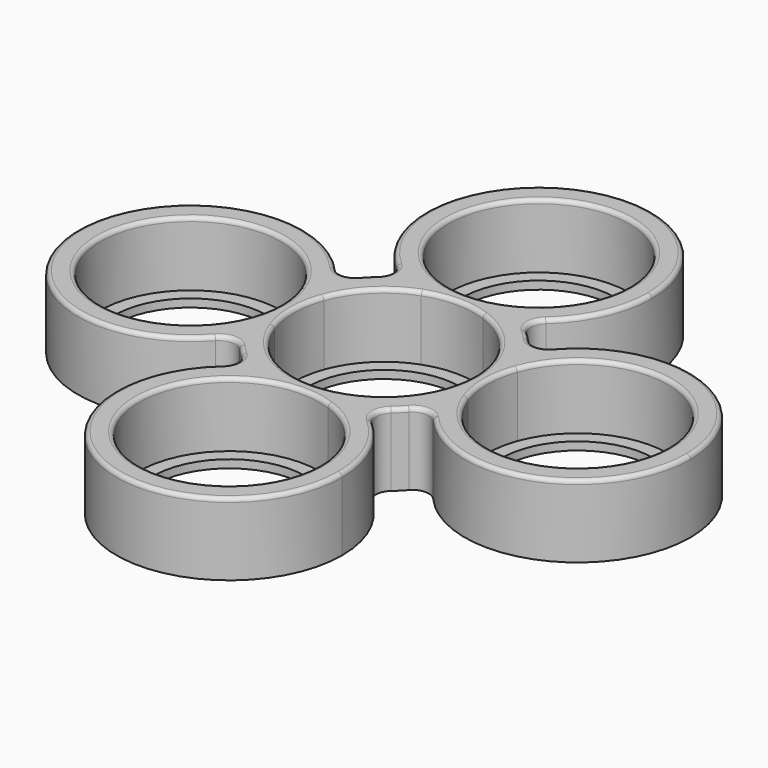
from build123d import *

# Parameters (mm, degrees)
F0_R     = 9.5
F1_DEPTH = 1
F2_DEPTH = 9
F3_R     = 2
F4_R     = 0.5


with BuildPart() as f1:
    # F0 (on Top) → F1 (new body)
    with BuildSketch(Plane.XY):
        with BuildLine():
            ThreePointArc((10.53, 3.8156388718), (11.0312283994, 1.937008002), (11.2, 0))
            ThreePointArc((11.2, 0), (11.0312283994, -1.937008002), (10.53, -3.8156388718))
            ThreePointArc((10.53, -3.8156388718), (11.1523341264, -5.5621472114), (12, -7.2111025509))
            ThreePointArc((12, -7.2111025509), (12.8476658736, -5.5621472114), (13.47, -3.8156388718))
            ThreePointArc((13.47, -3.8156388718), (12.8, 0), (13.47, 3.8156388718))
            ThreePointArc((13.47, 3.8156388718), (12.8476658736, 5.5621472114), (12, 7.2111025509))
            ThreePointArc((12, 7.2111025509), (11.1523341264, 5.5621472114), (10.53, 3.8156388718))
        make_face()
        with BuildLine():
            ThreePointArc((3.8156388718, 10.53), (7.9195959493, 7.9195959493), (10.53, 3.8156388718))
            ThreePointArc((10.53, 3.8156388718), (11.1523341264, 5.5621472114), (12, 7.2111025509))
            ThreePointArc((12, 7.2111025509), (9.8994949366, 9.8994949366), (7.2111025509, 12))
            ThreePointArc((7.2111025509, 12), (5.5621472114, 11.1523341264), (3.8156388718, 10.53))
        make_face()
        with BuildLine():
            ThreePointArc((12, -7.2111025509), (11.1523341264, -5.5621472114), (10.53, -3.8156388718))
            ThreePointArc((10.53, -3.8156388718), (7.9195959493, -7.9195959493), (3.8156388718, -10.53))
            ThreePointArc((3.8156388718, -10.53), (5.5621472114, -11.1523341264), (7.2111025509, -12))
            ThreePointArc((7.2111025509, -12), (9.8994949366, -9.8994949366), (12, -7.2111025509))
        make_face()
        with BuildLine():
            ThreePointArc((-3.8156388718, 10.53), (0, 11.2), (3.8156388718, 10.53))
            ThreePointArc((3.8156388718, 10.53), (5.5621472114, 11.1523341264), (7.2111025509, 12))
            ThreePointArc((7.2111025509, 12), (5.5621472114, 12.8476658736), (3.8156388718, 13.47))
            ThreePointArc((3.8156388718, 13.47), (0, 12.8), (-3.8156388718, 13.47))
            ThreePointArc((-3.8156388718, 13.47), (-5.5621472114, 12.8476658736), (-7.2111025509, 12))
            ThreePointArc((-7.2111025509, 12), (-5.5621472114, 11.1523341264), (-3.8156388718, 10.53))
        make_face()
        with BuildLine():
            ThreePointArc((38, 0), (27.7416573868, 13.4907375632), (12, 7.2111025509))
            ThreePointArc((12, 7.2111025509), (12.8476658736, 5.5621472114), (13.47, 3.8156388718))
            ThreePointArc((13.47, 3.8156388718), (25.937008002, 11.0312283994), (35.2, 0))
            ThreePointArc((35.2, 0), (25.937008002, -11.0312283994), (13.47, -3.8156388718))
            ThreePointArc((13.47, -3.8156388718), (12.8476658736, -5.5621472114), (12, -7.2111025509))
            ThreePointArc((12, -7.2111025509), (27.7416573868, -13.4907375632), (38, 0))
        make_face()
        with BuildLine():
            ThreePointArc((7.2111025509, -12), (5.5621472114, -11.1523341264), (3.8156388718, -10.53))
            ThreePointArc((3.8156388718, -10.53), (0, -11.2), (-3.8156388718, -10.53))
            ThreePointArc((-3.8156388718, -10.53), (-5.5621472114, -11.1523341264), (-7.2111025509, -12))
            ThreePointArc((-7.2111025509, -12), (-5.5621472114, -12.8476658736), (-3.8156388718, -13.47))
            ThreePointArc((-3.8156388718, -13.47), (0, -12.8), (3.8156388718, -13.47))
            ThreePointArc((3.8156388718, -13.47), (5.5621472114, -12.8476658736), (7.2111025509, -12))
        make_face()
        with BuildLine():
            ThreePointArc((-10.53, 3.8156388718), (-7.9195959493, 7.9195959493), (-3.8156388718, 10.53))
            ThreePointArc((-3.8156388718, 10.53), (-5.5621472114, 11.1523341264), (-7.2111025509, 12))
            ThreePointArc((-7.2111025509, 12), (-9.8994949366, 9.8994949366), (-12, 7.2111025509))
            ThreePointArc((-12, 7.2111025509), (-11.1523341264, 5.5621472114), (-10.53, 3.8156388718))
        make_face()
        with BuildLine():
            ThreePointArc((3.8156388718, 13.47), (5.5621472114, 12.8476658736), (7.2111025509, 12))
            ThreePointArc((7.2111025509, 12), (12.1851433252, 17.1063592969), (14, 24))
            ThreePointArc((14, 24), (-6.8936407031, 36.1851433252), (-7.2111025509, 12))
            ThreePointArc((-7.2111025509, 12), (-5.5621472114, 12.8476658736), (-3.8156388718, 13.47))
            ThreePointArc((-3.8156388718, 13.47), (-6.4305849126, 33.1699278995), (11.2, 24))
            ThreePointArc((11.2, 24), (9.1699278995, 17.5694150874), (3.8156388718, 13.47))
        make_face()
        with BuildLine():
            ThreePointArc((-7.2111025509, -12), (-5.5621472114, -11.1523341264), (-3.8156388718, -10.53))
            ThreePointArc((-3.8156388718, -10.53), (-7.9195959493, -7.9195959493), (-10.53, -3.8156388718))
            ThreePointArc((-10.53, -3.8156388718), (-11.1523341264, -5.5621472114), (-12, -7.2111025509))
            ThreePointArc((-12, -7.2111025509), (-9.8994949366, -9.8994949366), (-7.2111025509, -12))
        make_face()
        with BuildLine():
            ThreePointArc((14, -24), (12.1851433252, -17.1063592969), (7.2111025509, -12))
            ThreePointArc((7.2111025509, -12), (5.5621472114, -12.8476658736), (3.8156388718, -13.47))
            ThreePointArc((3.8156388718, -13.47), (9.1699278995, -17.5694150874), (11.2, -24))
            ThreePointArc((11.2, -24), (-6.4305849126, -33.1699278995), (-3.8156388718, -13.47))
            ThreePointArc((-3.8156388718, -13.47), (-5.5621472114, -12.8476658736), (-7.2111025509, -12))
            ThreePointArc((-7.2111025509, -12), (-6.8936407031, -36.1851433252), (14, -24))
        make_face()
        with BuildLine():
            ThreePointArc((-10.53, -3.8156388718), (-11.2, 0), (-10.53, 3.8156388718))
            ThreePointArc((-10.53, 3.8156388718), (-11.1523341264, 5.5621472114), (-12, 7.2111025509))
            ThreePointArc((-12, 7.2111025509), (-12.8476658736, 5.5621472114), (-13.47, 3.8156388718))
            ThreePointArc((-13.47, 3.8156388718), (-12.9687716006, 1.937008002), (-12.8, 0))
            ThreePointArc((-12.8, 0), (-12.9687716006, -1.937008002), (-13.47, -3.8156388718))
            ThreePointArc((-13.47, -3.8156388718), (-12.8476658736, -5.5621472114), (-12, -7.2111025509))
            ThreePointArc((-12, -7.2111025509), (-11.1523341264, -5.5621472114), (-10.53, -3.8156388718))
        make_face()
        with BuildLine():
            ThreePointArc((-13.47, 3.8156388718), (-12.8476658736, 5.5621472114), (-12, 7.2111025509))
            ThreePointArc((-12, 7.2111025509), (-38, 0), (-12, -7.2111025509))
            ThreePointArc((-12, -7.2111025509), (-12.8476658736, -5.5621472114), (-13.47, -3.8156388718))
            ThreePointArc((-13.47, -3.8156388718), (-35.2, 0), (-13.47, 3.8156388718))
        make_face()
        with BuildLine():
            ThreePointArc((10.53, -3.8156388718), (10, 0), (10.53, 3.8156388718))
            ThreePointArc((10.53, 3.8156388718), (7.9195959493, 7.9195959493), (3.8156388718, 10.53))
            ThreePointArc((3.8156388718, 10.53), (0, 10), (-3.8156388718, 10.53))
            ThreePointArc((-3.8156388718, 10.53), (-7.9195959493, 7.9195959493), (-10.53, 3.8156388718))
            ThreePointArc((-10.53, 3.8156388718), (-10.1331330143, 1.9261360284), (-10, 0))
            ThreePointArc((-10, 0), (-10.1331330143, -1.9261360284), (-10.53, -3.8156388718))
            ThreePointArc((-10.53, -3.8156388718), (-7.9195959493, -7.9195959493), (-3.8156388718, -10.53))
            ThreePointArc((-3.8156388718, -10.53), (0, -10), (3.8156388718, -10.53))
            ThreePointArc((3.8156388718, -10.53), (7.9195959493, -7.9195959493), (10.53, -3.8156388718))
        make_face()
        Circle(F0_R, mode=Mode.SUBTRACT)
        with BuildLine():
            ThreePointArc((-3.8156388718, 13.47), (0, 12.8), (3.8156388718, 13.47))
            ThreePointArc((3.8156388718, 13.47), (0, 14), (-3.8156388718, 13.47))
        make_face()
        with BuildLine():
            ThreePointArc((-3.8156388718, 13.47), (0, 14), (3.8156388718, 13.47))
            ThreePointArc((3.8156388718, 13.47), (9.1699278995, 17.5694150874), (11.2, 24))
            ThreePointArc((11.2, 24), (-6.4305849126, 33.1699278995), (-3.8156388718, 13.47))
        make_face()
        with Locations((0, 24)):
            Circle(F0_R, mode=Mode.SUBTRACT)
        with BuildLine():
            ThreePointArc((-12.8, 0), (-12.9687716006, 1.937008002), (-13.47, 3.8156388718))
            ThreePointArc((-13.47, 3.8156388718), (-14, 0), (-13.47, -3.8156388718))
            ThreePointArc((-13.47, -3.8156388718), (-12.9687716006, -1.937008002), (-12.8, 0))
        make_face()
        with BuildLine():
            ThreePointArc((-13.47, -3.8156388718), (-14, 0), (-13.47, 3.8156388718))
            ThreePointArc((-13.47, 3.8156388718), (-35.2, 0), (-13.47, -3.8156388718))
        make_face()
        with Locations((-24, 0)):
            Circle(F0_R, mode=Mode.SUBTRACT)
        with BuildLine():
            ThreePointArc((10.53, 3.8156388718), (11.0312283994, 1.937008002), (11.2, 0))
            ThreePointArc((11.2, 0), (11.0312283994, -1.937008002), (10.53, -3.8156388718))
            ThreePointArc((10.53, -3.8156388718), (11.1523341264, -5.5621472114), (12, -7.2111025509))
            ThreePointArc((12, -7.2111025509), (12.8476658736, -5.5621472114), (13.47, -3.8156388718))
            ThreePointArc((13.47, -3.8156388718), (12.8, 0), (13.47, 3.8156388718))
            ThreePointArc((13.47, 3.8156388718), (12.8476658736, 5.5621472114), (12, 7.2111025509))
            ThreePointArc((12, 7.2111025509), (11.1523341264, 5.5621472114), (10.53, 3.8156388718))
        make_face()
        with BuildLine():
            ThreePointArc((38, 0), (27.7416573868, 13.4907375632), (12, 7.2111025509))
            ThreePointArc((12, 7.2111025509), (12.8476658736, 5.5621472114), (13.47, 3.8156388718))
            ThreePointArc((13.47, 3.8156388718), (25.937008002, 11.0312283994), (35.2, 0))
            ThreePointArc((35.2, 0), (25.937008002, -11.0312283994), (13.47, -3.8156388718))
            ThreePointArc((13.47, -3.8156388718), (12.8476658736, -5.5621472114), (12, -7.2111025509))
            ThreePointArc((12, -7.2111025509), (27.7416573868, -13.4907375632), (38, 0))
        make_face()
        with BuildLine():
            ThreePointArc((-10, 0), (-10.1331330143, 1.9261360284), (-10.53, 3.8156388718))
            ThreePointArc((-10.53, 3.8156388718), (-11.2, 0), (-10.53, -3.8156388718))
            ThreePointArc((-10.53, -3.8156388718), (-10.1331330143, -1.9261360284), (-10, 0))
        make_face()
        with BuildLine():
            ThreePointArc((10.53, -3.8156388718), (10, 0), (10.53, 3.8156388718))
            ThreePointArc((10.53, 3.8156388718), (7.9195959493, 7.9195959493), (3.8156388718, 10.53))
            ThreePointArc((3.8156388718, 10.53), (0, 10), (-3.8156388718, 10.53))
            ThreePointArc((-3.8156388718, 10.53), (-7.9195959493, 7.9195959493), (-10.53, 3.8156388718))
            ThreePointArc((-10.53, 3.8156388718), (-10.1331330143, 1.9261360284), (-10, 0))
            ThreePointArc((-10, 0), (-10.1331330143, -1.9261360284), (-10.53, -3.8156388718))
            ThreePointArc((-10.53, -3.8156388718), (-7.9195959493, -7.9195959493), (-3.8156388718, -10.53))
            ThreePointArc((-3.8156388718, -10.53), (0, -10), (3.8156388718, -10.53))
            ThreePointArc((3.8156388718, -10.53), (7.9195959493, -7.9195959493), (10.53, -3.8156388718))
        make_face()
        Circle(F0_R, mode=Mode.SUBTRACT)
        with BuildLine():
            ThreePointArc((10.53, -3.8156388718), (10, 0), (10.53, 3.8156388718))
            ThreePointArc((10.53, 3.8156388718), (7.9195959493, 7.9195959493), (3.8156388718, 10.53))
            ThreePointArc((3.8156388718, 10.53), (0, 10), (-3.8156388718, 10.53))
            ThreePointArc((-3.8156388718, 10.53), (-7.9195959493, 7.9195959493), (-10.53, 3.8156388718))
            ThreePointArc((-10.53, 3.8156388718), (-10.1331330143, 1.9261360284), (-10, 0))
            ThreePointArc((-10, 0), (-10.1331330143, -1.9261360284), (-10.53, -3.8156388718))
            ThreePointArc((-10.53, -3.8156388718), (-7.9195959493, -7.9195959493), (-3.8156388718, -10.53))
            ThreePointArc((-3.8156388718, -10.53), (0, -10), (3.8156388718, -10.53))
            ThreePointArc((3.8156388718, -10.53), (7.9195959493, -7.9195959493), (10.53, -3.8156388718))
        make_face()
        Circle(F0_R, mode=Mode.SUBTRACT)
        with BuildLine():
            ThreePointArc((-3.8156388718, -10.53), (0, -11.2), (3.8156388718, -10.53))
            ThreePointArc((3.8156388718, -10.53), (0, -10), (-3.8156388718, -10.53))
        make_face()
        with BuildLine():
            ThreePointArc((10.53, -3.8156388718), (11.0312283994, -1.937008002), (11.2, 0))
            ThreePointArc((11.2, 0), (11.0312283994, 1.937008002), (10.53, 3.8156388718))
            ThreePointArc((10.53, 3.8156388718), (10, 0), (10.53, -3.8156388718))
        make_face()
        with BuildLine():
            ThreePointArc((-3.8156388718, 10.53), (0, 10), (3.8156388718, 10.53))
            ThreePointArc((3.8156388718, 10.53), (0, 11.2), (-3.8156388718, 10.53))
        make_face()
        with BuildLine():
            ThreePointArc((11.2, -24), (9.1699278995, -17.5694150874), (3.8156388718, -13.47))
            ThreePointArc((3.8156388718, -13.47), (0, -14), (-3.8156388718, -13.47))
            ThreePointArc((-3.8156388718, -13.47), (-6.4305849126, -33.1699278995), (11.2, -24))
        make_face()
        with Locations((0, -24)):
            Circle(F0_R, mode=Mode.SUBTRACT)
        with BuildLine():
            ThreePointArc((35.2, 0), (25.937008002, 11.0312283994), (13.47, 3.8156388718))
            ThreePointArc((13.47, 3.8156388718), (13.8668669857, 1.9261360284), (14, 0))
            ThreePointArc((14, 0), (13.8668669857, -1.9261360284), (13.47, -3.8156388718))
            ThreePointArc((13.47, -3.8156388718), (25.937008002, -11.0312283994), (35.2, 0))
        make_face()
        with Locations((24, 0)):
            Circle(F0_R, mode=Mode.SUBTRACT)
        with BuildLine():
            ThreePointArc((-3.8156388718, -13.47), (0, -14), (3.8156388718, -13.47))
            ThreePointArc((3.8156388718, -13.47), (0, -12.8), (-3.8156388718, -13.47))
        make_face()
        with BuildLine():
            ThreePointArc((14, 0), (13.8668669857, 1.9261360284), (13.47, 3.8156388718))
            ThreePointArc((13.47, 3.8156388718), (12.8, 0), (13.47, -3.8156388718))
            ThreePointArc((13.47, -3.8156388718), (13.8668669857, -1.9261360284), (14, 0))
        make_face()
    extrude(amount=F1_DEPTH)

    # F0 (on Top) → F2 (join)
    with BuildSketch(Plane.XY):
        with BuildLine():
            ThreePointArc((10.53, 3.8156388718), (11.0312283994, 1.937008002), (11.2, 0))
            ThreePointArc((11.2, 0), (11.0312283994, -1.937008002), (10.53, -3.8156388718))
            ThreePointArc((10.53, -3.8156388718), (11.1523341264, -5.5621472114), (12, -7.2111025509))
            ThreePointArc((12, -7.2111025509), (12.8476658736, -5.5621472114), (13.47, -3.8156388718))
            ThreePointArc((13.47, -3.8156388718), (12.8, 0), (13.47, 3.8156388718))
            ThreePointArc((13.47, 3.8156388718), (12.8476658736, 5.5621472114), (12, 7.2111025509))
            ThreePointArc((12, 7.2111025509), (11.1523341264, 5.5621472114), (10.53, 3.8156388718))
        make_face()
        with BuildLine():
            ThreePointArc((3.8156388718, 10.53), (7.9195959493, 7.9195959493), (10.53, 3.8156388718))
            ThreePointArc((10.53, 3.8156388718), (11.1523341264, 5.5621472114), (12, 7.2111025509))
            ThreePointArc((12, 7.2111025509), (9.8994949366, 9.8994949366), (7.2111025509, 12))
            ThreePointArc((7.2111025509, 12), (5.5621472114, 11.1523341264), (3.8156388718, 10.53))
        make_face()
        with BuildLine():
            ThreePointArc((12, -7.2111025509), (11.1523341264, -5.5621472114), (10.53, -3.8156388718))
            ThreePointArc((10.53, -3.8156388718), (7.9195959493, -7.9195959493), (3.8156388718, -10.53))
            ThreePointArc((3.8156388718, -10.53), (5.5621472114, -11.1523341264), (7.2111025509, -12))
            ThreePointArc((7.2111025509, -12), (9.8994949366, -9.8994949366), (12, -7.2111025509))
        make_face()
        with BuildLine():
            ThreePointArc((-3.8156388718, 10.53), (0, 11.2), (3.8156388718, 10.53))
            ThreePointArc((3.8156388718, 10.53), (5.5621472114, 11.1523341264), (7.2111025509, 12))
            ThreePointArc((7.2111025509, 12), (5.5621472114, 12.8476658736), (3.8156388718, 13.47))
            ThreePointArc((3.8156388718, 13.47), (0, 12.8), (-3.8156388718, 13.47))
            ThreePointArc((-3.8156388718, 13.47), (-5.5621472114, 12.8476658736), (-7.2111025509, 12))
            ThreePointArc((-7.2111025509, 12), (-5.5621472114, 11.1523341264), (-3.8156388718, 10.53))
        make_face()
        with BuildLine():
            ThreePointArc((38, 0), (27.7416573868, 13.4907375632), (12, 7.2111025509))
            ThreePointArc((12, 7.2111025509), (12.8476658736, 5.5621472114), (13.47, 3.8156388718))
            ThreePointArc((13.47, 3.8156388718), (25.937008002, 11.0312283994), (35.2, 0))
            ThreePointArc((35.2, 0), (25.937008002, -11.0312283994), (13.47, -3.8156388718))
            ThreePointArc((13.47, -3.8156388718), (12.8476658736, -5.5621472114), (12, -7.2111025509))
            ThreePointArc((12, -7.2111025509), (27.7416573868, -13.4907375632), (38, 0))
        make_face()
        with BuildLine():
            ThreePointArc((7.2111025509, -12), (5.5621472114, -11.1523341264), (3.8156388718, -10.53))
            ThreePointArc((3.8156388718, -10.53), (0, -11.2), (-3.8156388718, -10.53))
            ThreePointArc((-3.8156388718, -10.53), (-5.5621472114, -11.1523341264), (-7.2111025509, -12))
            ThreePointArc((-7.2111025509, -12), (-5.5621472114, -12.8476658736), (-3.8156388718, -13.47))
            ThreePointArc((-3.8156388718, -13.47), (0, -12.8), (3.8156388718, -13.47))
            ThreePointArc((3.8156388718, -13.47), (5.5621472114, -12.8476658736), (7.2111025509, -12))
        make_face()
        with BuildLine():
            ThreePointArc((-10.53, 3.8156388718), (-7.9195959493, 7.9195959493), (-3.8156388718, 10.53))
            ThreePointArc((-3.8156388718, 10.53), (-5.5621472114, 11.1523341264), (-7.2111025509, 12))
            ThreePointArc((-7.2111025509, 12), (-9.8994949366, 9.8994949366), (-12, 7.2111025509))
            ThreePointArc((-12, 7.2111025509), (-11.1523341264, 5.5621472114), (-10.53, 3.8156388718))
        make_face()
        with BuildLine():
            ThreePointArc((3.8156388718, 13.47), (5.5621472114, 12.8476658736), (7.2111025509, 12))
            ThreePointArc((7.2111025509, 12), (12.1851433252, 17.1063592969), (14, 24))
            ThreePointArc((14, 24), (-6.8936407031, 36.1851433252), (-7.2111025509, 12))
            ThreePointArc((-7.2111025509, 12), (-5.5621472114, 12.8476658736), (-3.8156388718, 13.47))
            ThreePointArc((-3.8156388718, 13.47), (-6.4305849126, 33.1699278995), (11.2, 24))
            ThreePointArc((11.2, 24), (9.1699278995, 17.5694150874), (3.8156388718, 13.47))
        make_face()
        with BuildLine():
            ThreePointArc((-7.2111025509, -12), (-5.5621472114, -11.1523341264), (-3.8156388718, -10.53))
            ThreePointArc((-3.8156388718, -10.53), (-7.9195959493, -7.9195959493), (-10.53, -3.8156388718))
            ThreePointArc((-10.53, -3.8156388718), (-11.1523341264, -5.5621472114), (-12, -7.2111025509))
            ThreePointArc((-12, -7.2111025509), (-9.8994949366, -9.8994949366), (-7.2111025509, -12))
        make_face()
        with BuildLine():
            ThreePointArc((14, -24), (12.1851433252, -17.1063592969), (7.2111025509, -12))
            ThreePointArc((7.2111025509, -12), (5.5621472114, -12.8476658736), (3.8156388718, -13.47))
            ThreePointArc((3.8156388718, -13.47), (9.1699278995, -17.5694150874), (11.2, -24))
            ThreePointArc((11.2, -24), (-6.4305849126, -33.1699278995), (-3.8156388718, -13.47))
            ThreePointArc((-3.8156388718, -13.47), (-5.5621472114, -12.8476658736), (-7.2111025509, -12))
            ThreePointArc((-7.2111025509, -12), (-6.8936407031, -36.1851433252), (14, -24))
        make_face()
        with BuildLine():
            ThreePointArc((-10.53, -3.8156388718), (-11.2, 0), (-10.53, 3.8156388718))
            ThreePointArc((-10.53, 3.8156388718), (-11.1523341264, 5.5621472114), (-12, 7.2111025509))
            ThreePointArc((-12, 7.2111025509), (-12.8476658736, 5.5621472114), (-13.47, 3.8156388718))
            ThreePointArc((-13.47, 3.8156388718), (-12.9687716006, 1.937008002), (-12.8, 0))
            ThreePointArc((-12.8, 0), (-12.9687716006, -1.937008002), (-13.47, -3.8156388718))
            ThreePointArc((-13.47, -3.8156388718), (-12.8476658736, -5.5621472114), (-12, -7.2111025509))
            ThreePointArc((-12, -7.2111025509), (-11.1523341264, -5.5621472114), (-10.53, -3.8156388718))
        make_face()
        with BuildLine():
            ThreePointArc((-13.47, 3.8156388718), (-12.8476658736, 5.5621472114), (-12, 7.2111025509))
            ThreePointArc((-12, 7.2111025509), (-38, 0), (-12, -7.2111025509))
            ThreePointArc((-12, -7.2111025509), (-12.8476658736, -5.5621472114), (-13.47, -3.8156388718))
            ThreePointArc((-13.47, -3.8156388718), (-35.2, 0), (-13.47, 3.8156388718))
        make_face()
    extrude(amount=F2_DEPTH)

    # F3
    f3_edges = [f1.edges().sort_by_distance(p)[0] for p in [
        (-7.211103, 12, 4.5),
        (-12, 7.211103, 4.5),
        (-12, -7.211103, 4.5),
        (12, -7.211103, 4.5),
        (12, 7.211103, 4.5),
        (7.211103, 12, 4.5),
        (-7.211103, -12, 4.5),
        (7.211103, -12, 4.5),
    ]]
    fillet(f3_edges, radius=F3_R)

    # F4
    f4_edges = [f1.edges().sort_by_distance(p)[0] for p in [
        (0, 38, 9),
        (3.815639, 34.53, 9),
        (-34.53, 3.815639, 9),
        (10.53, 3.815639, 9),
        (34.53, -3.815639, 9),
        (-3.815639, -34.53, 9),
    ]]
    fillet(f4_edges, radius=F4_R)


solid = f1.part
